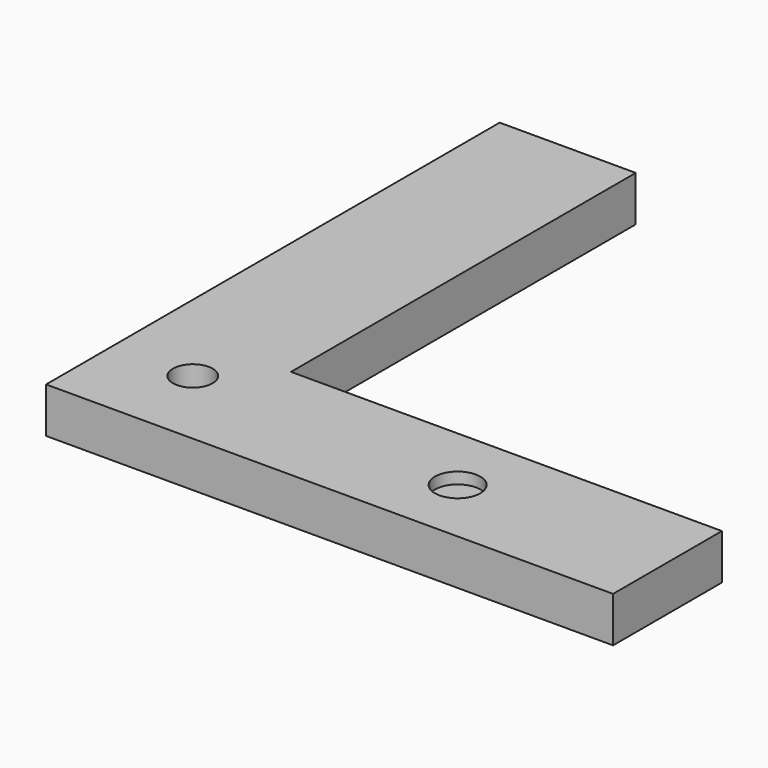
from build123d import *

# Parameters (mm, degrees)
F0_R     = 1.75
F1_DEPTH = 4
F2_R     = 2
F3_DEPTH = 1


with BuildPart() as f1:
    # F0 (on Top) → F1 (new body)
    with BuildSketch(Plane.XY):
        Polygon((0, 50), (0, 0), (50, 0), (50, 12), (12, 12), (12, 50), align=None)
        with Locations((7.1, 7.3)):
            Circle(F0_R, mode=Mode.SUBTRACT)
    extrude(amount=F1_DEPTH)

    # F2 (on face) → F3 (cut)
    with BuildSketch(Plane.XY.offset(4)):
        with Locations((31.494917, 6)):
            Circle(F2_R)
    extrude(amount=-F3_DEPTH, mode=Mode.SUBTRACT)


solid = f1.part
